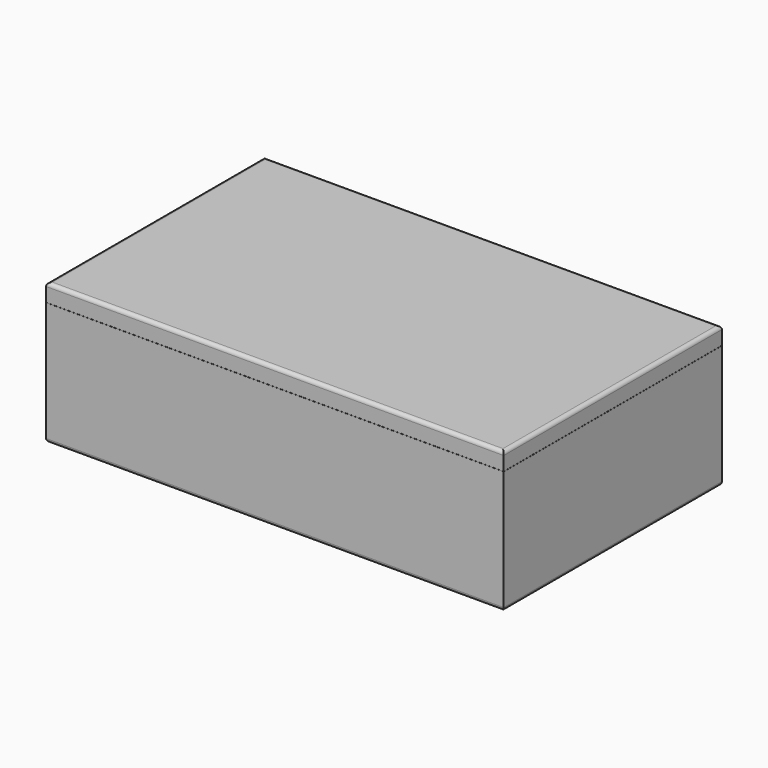
from build123d import *

# Parameters (mm, degrees)
F0_W     = 650
F0_H     = 387.5
F1_DEPTH = 200
F2_T     = -25
F3_R     = 20
F4_DEPTH = 25
F5_R     = 5
F6_W     = 756.5549731451
F6_H     = 0.1
F7_DEPTH = 500
F8_W     = 610
F8_H     = 347.5
F9_DEPTH = 25


with BuildPart() as f1:
    # F0 (on Top) → F1 (new body)
    with BuildSketch(Plane.XY):
        Rectangle(F0_W, F0_H)
    extrude(amount=F1_DEPTH)

    # F2
    f2_openings = [f1.faces().sort_by_distance(p)[0] for p in [
        (0, 0, 200),
    ]]
    offset(amount=F2_T, openings=f2_openings)

    # F3 (on face) → F4 (cut)
    with BuildSketch(Plane(origin=(0, 193.75, 0), x_dir=(-1, 0, 0), z_dir=(0, 1, 0))):
        with Locations((-39.309, 71.226)):
            Circle(F3_R)
        with Locations((39.309, 71.226)):
            Circle(F3_R)
    extrude(amount=-F4_DEPTH, mode=Mode.SUBTRACT)

    # F5
    f5_edges = [f1.edges().sort_by_distance(p)[0] for p in [
        (300, 0, 25),
        (0, 168.75, 25),
        (-300, 0, 25),
        (0, -168.75, 25),
        (325, 0, 200),
        (0, 193.75, 200),
        (-325, 0, 200),
        (0, -193.75, 200),
        (300, 0, 200),
        (0, -168.75, 200),
        (-300, 0, 200),
        (0, 168.75, 200),
        (325, 0, 0),
        (0, 193.75, 0),
        (-325, 0, 0),
        (0, -193.75, 0),
    ]]
    fillet(f5_edges, radius=F5_R)

    # F6 (on face) → F7 (cut)
    with BuildSketch(Plane.XZ.offset(193.75)):
        with Locations((24.6878415346, 174.95)):
            Rectangle(F6_W, F6_H)
    extrude(amount=-F7_DEPTH, mode=Mode.SUBTRACT)

    # F8 (on face) → F9 (join)
    with BuildSketch(Plane.XY.offset(200)):
        Rectangle(F8_W, F8_H)
    extrude(amount=-F9_DEPTH)


solid = f1.part
